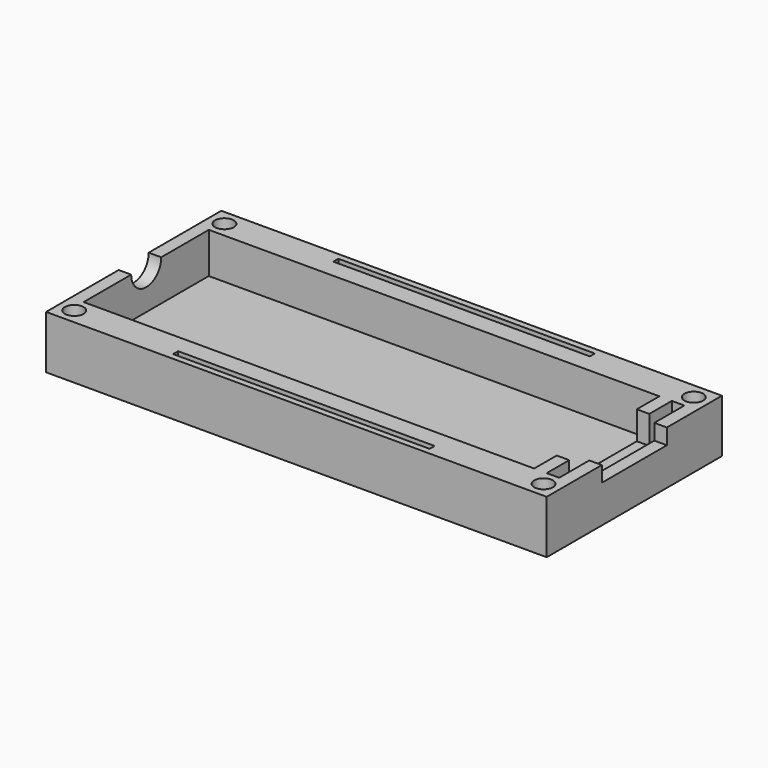
from build123d import *

# Parameters (mm, degrees)
BOX009_W             = 41
BOX009_H             = 1
BOX009_DEPTH         = 2
BOX008_W             = 41
BOX008_H             = 1
BOX008_DEPTH         = 2
CYLINDER004_R        = 1.5
CYLINDER004_DEPTH    = 10
CYLINDER003_R        = 1.5
CYLINDER003_DEPTH    = 10
CYLINDER002_R        = 1.5
CYLINDER002_DEPTH    = 10
CYLINDER001_R        = 1.5
CYLINDER001_DEPTH    = 10
BOX005_W             = 3
BOX005_H             = 25
BOX005_DEPTH         = 10
BOX004_W             = 2
BOX004_H             = 16
BOX004_DEPTH         = 9
BOX003_W             = 2
BOX003_H             = 13
BOX003_DEPTH         = 5
BOX002_W             = 2
BOX002_H             = 25
BOX002_DEPTH         = 9
CYLINDER_R           = 3
CYLINDER_DEPTH       = 2
CYLINDER_PITCH_ANGLE = 90
BOX001_W             = 69
BOX001_H             = 25
BOX001_DEPTH         = 13
BOX_W                = 80
BOX_H                = 35
BOX_DEPTH            = 8.5


with BuildPart() as box009:
    # Box009 → Box009 (new body)
    with BuildSketch(Plane(origin=(19.5, 1, 6.5), x_dir=(1, 0, 0), z_dir=(0, 0, 1))):
        with Locations((20.5, 0.5)):
            Rectangle(BOX009_W, BOX009_H)
    extrude(amount=BOX009_DEPTH)


with BuildPart() as box008:
    # Box008 → Box008 (new body)
    with BuildSketch(Plane(origin=(19.5, 33, 6.5), x_dir=(1, 0, 0), z_dir=(0, 0, 1))):
        with Locations((20.5, 0.5)):
            Rectangle(BOX008_W, BOX008_H)
    extrude(amount=BOX008_DEPTH)


with BuildPart() as cylinder004:
    # Cylinder004 → Cylinder004 (new body)
    with BuildSketch(Plane(origin=(2.5, 32.5, 0), x_dir=(1, 0, 0), z_dir=(0, 0, 1))):
        Circle(CYLINDER004_R)
    extrude(amount=CYLINDER004_DEPTH)


with BuildPart() as cylinder003:
    # Cylinder003 → Cylinder003 (new body)
    with BuildSketch(Plane(origin=(77.5, 32.5, 0), x_dir=(1, 0, 0), z_dir=(0, 0, 1))):
        Circle(CYLINDER003_R)
    extrude(amount=CYLINDER003_DEPTH)


with BuildPart() as cylinder002:
    # Cylinder002 → Cylinder002 (new body)
    with BuildSketch(Plane(origin=(77.5, 2.5, 0), x_dir=(1, 0, 0), z_dir=(0, 0, 1))):
        Circle(CYLINDER002_R)
    extrude(amount=CYLINDER002_DEPTH)


with BuildPart() as cylinder001:
    # Cylinder001 → Cylinder001 (new body)
    with BuildSketch(Plane(origin=(2.5, 2.5, 0), x_dir=(1, 0, 0), z_dir=(0, 0, 1))):
        Circle(CYLINDER001_R)
    extrude(amount=CYLINDER001_DEPTH)


with BuildPart() as box005:
    # Box005 → Box005 (new body)
    with BuildSketch(Plane(origin=(2, 5, 2), x_dir=(1, 0, 0), z_dir=(0, 0, 1))):
        with Locations((1.5, 12.5)):
            Rectangle(BOX005_W, BOX005_H)
    extrude(amount=BOX005_DEPTH)


with BuildPart() as box004:
    # Box004 → Box004 (new body)
    with BuildSketch(Plane(origin=(74, 9.5, 4), x_dir=(1, 0, 0), z_dir=(0, 0, 1))):
        with Locations((1, 8)):
            Rectangle(BOX004_W, BOX004_H)
    extrude(amount=BOX004_DEPTH)


with BuildPart() as u:
    # Box003 → Box003 (new body)
    with BuildSketch(Plane(origin=(78, 11, 6), x_dir=(1, 0, 0), z_dir=(0, 0, 1))):
        with Locations((1, 6.5)):
            Rectangle(BOX003_W, BOX003_H)
    extrude(amount=BOX003_DEPTH)


with BuildPart() as box002:
    # Box002 → Box002 (new body)
    with BuildSketch(Plane(origin=(76, 5, 4), x_dir=(1, 0, 0), z_dir=(0, 0, 1))):
        with Locations((1, 12.5)):
            Rectangle(BOX002_W, BOX002_H)
    extrude(amount=BOX002_DEPTH)


with BuildPart() as cylinder:
    # Cylinder → Cylinder (new body)
    with BuildSketch(Plane.XY):
        Circle(CYLINDER_R)
    extrude(amount=CYLINDER_DEPTH)


with BuildPart() as cylinder_1:
    # Cylinder pitch: moved
    add(cylinder.part.rotate(Axis((0, 0, 0), (0, 1, 0)), CYLINDER_PITCH_ANGLE))


with BuildPart() as cylinder_2:
    # Cylinder placement: moved
    add(cylinder_1.part.moved(Location((0, 17.5, 8.5))))


with BuildPart() as box001:
    # Box001 → Box001 (new body)
    with BuildSketch(Plane(origin=(5, 5, 2), x_dir=(1, 0, 0), z_dir=(0, 0, 1))):
        with Locations((34.5, 12.5)):
            Rectangle(BOX001_W, BOX001_H)
    extrude(amount=BOX001_DEPTH)


with BuildPart() as cut011:
    # Box → Box (new body)
    with BuildSketch(Plane.XY):
        with Locations((40, 17.5)):
            Rectangle(BOX_W, BOX_H)
    extrude(amount=BOX_DEPTH)

    # Cut: cut Box001
    add(box001.part, mode=Mode.SUBTRACT)

    # Cut001: cut Cylinder
    add(cylinder_2.part, mode=Mode.SUBTRACT)

    # Cut002: cut Box002
    add(box002.part, mode=Mode.SUBTRACT)

    add(u.part, mode=Mode.SUBTRACT)

    # Cut004: cut Box004
    add(box004.part, mode=Mode.SUBTRACT)

    # Cut005: cut Box005
    add(box005.part, mode=Mode.SUBTRACT)

    # Cut006: cut Cylinder001
    add(cylinder001.part, mode=Mode.SUBTRACT)

    # Cut007: cut Cylinder002
    add(cylinder002.part, mode=Mode.SUBTRACT)

    # Cut008: cut Cylinder003
    add(cylinder003.part, mode=Mode.SUBTRACT)

    # Cut009: cut Cylinder004
    add(cylinder004.part, mode=Mode.SUBTRACT)

    # Cut010: cut Box008
    add(box008.part, mode=Mode.SUBTRACT)

    # Cut011: cut Box009
    add(box009.part, mode=Mode.SUBTRACT)


solid = cut011.part
